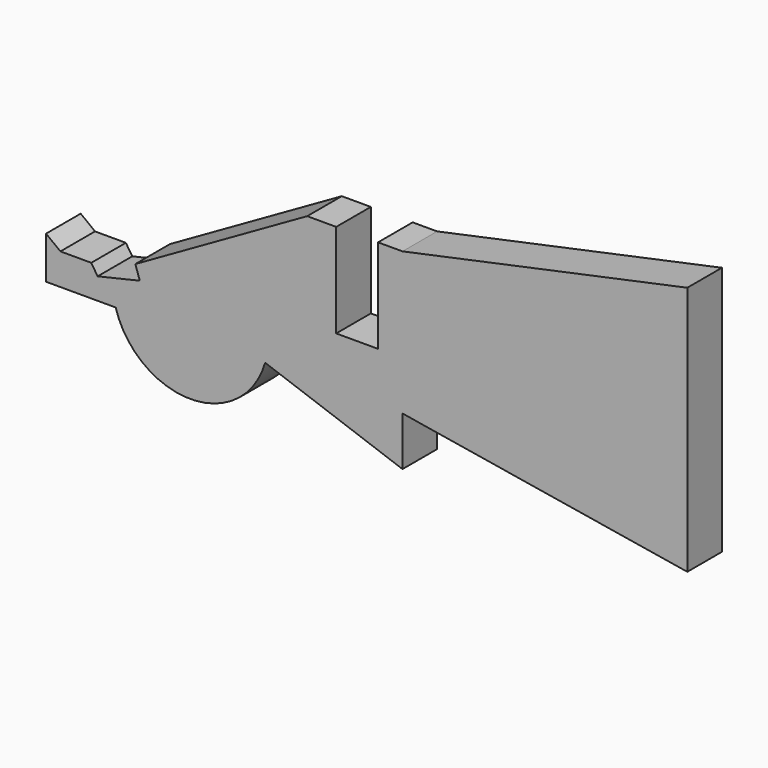
from build123d import *

# Parameters (mm, degrees)
F1_DEPTH = 3
F2_DEPTH = 3


with BuildPart() as f1:
    # F0 (on Front) → F1 (new body)
    with BuildSketch(Plane.XZ):
        with BuildLine():
            Line((-24.701704, 2.93977), (-24.701704, 0))
            Line((-24.701704, 0), (-21.494682, 0))
            Line((-21.494682, 0), (-19.878102, 0))
            ThreePointArc((-19.878102, 0), (-14.698851, -3.900059), (-9.519599, 0))
            Line((-9.519599, 0), (0, -3.397916))
            Line((0, -3.397916), (0, 0))
            Line((0, 0), (19.738455, -3.245201))
            Line((19.738455, -3.245201), (19.738455, 14.08799))
            Line((19.738455, 14.08799), (0, 9.888318))
            Line((0, 9.888318), (-1.695249, 9.888318))
            Line((-1.695249, 9.888318), (-1.695249, 3.388318))
            Line((-1.695249, 3.388318), (-4.595249, 3.388318))
            Line((-4.595249, 3.388318), (-4.595249, 9.888318))
            Line((-4.595249, 9.888318), (-6.604938, 9.888318))
            Line((-6.604938, 9.888318), (-18.516734, 3.092485))
            Line((-18.516734, 3.092485), (-18.207028, 2.176193))
            Line((-18.207028, 2.176193), (-21.128689, 1.495096))
            Line((-21.128689, 1.495096), (-21.57104, 2.176193))
            Line((-21.57104, 2.176193), (-23.709055, 2.176193))
            Line((-23.709055, 2.176193), (-24.701704, 2.93977))
        make_face()
    extrude(amount=F1_DEPTH)

    # F0 (on Front) → F2 (join)
    with BuildSketch(Plane.XZ):
        with BuildLine():
            Line((-24.701704, 2.93977), (-24.701704, 0))
            Line((-24.701704, 0), (-21.494682, 0))
            Line((-21.494682, 0), (-19.878102, 0))
            ThreePointArc((-19.878102, 0), (-14.698851, -3.900059), (-9.519599, 0))
            Line((-9.519599, 0), (0, -3.397916))
            Line((0, -3.397916), (0, 0))
            Line((0, 0), (19.738455, -3.245201))
            Line((19.738455, -3.245201), (19.738455, 14.08799))
            Line((19.738455, 14.08799), (0, 9.888318))
            Line((0, 9.888318), (-1.695249, 9.888318))
            Line((-1.695249, 9.888318), (-1.695249, 3.388318))
            Line((-1.695249, 3.388318), (-4.595249, 3.388318))
            Line((-4.595249, 3.388318), (-4.595249, 9.888318))
            Line((-4.595249, 9.888318), (-6.604938, 9.888318))
            Line((-6.604938, 9.888318), (-18.516734, 3.092485))
            Line((-18.516734, 3.092485), (-18.207028, 2.176193))
            Line((-18.207028, 2.176193), (-21.128689, 1.495096))
            Line((-21.128689, 1.495096), (-21.57104, 2.176193))
            Line((-21.57104, 2.176193), (-23.709055, 2.176193))
            Line((-23.709055, 2.176193), (-24.701704, 2.93977))
        make_face()
    extrude(amount=F2_DEPTH)


solid = f1.part
